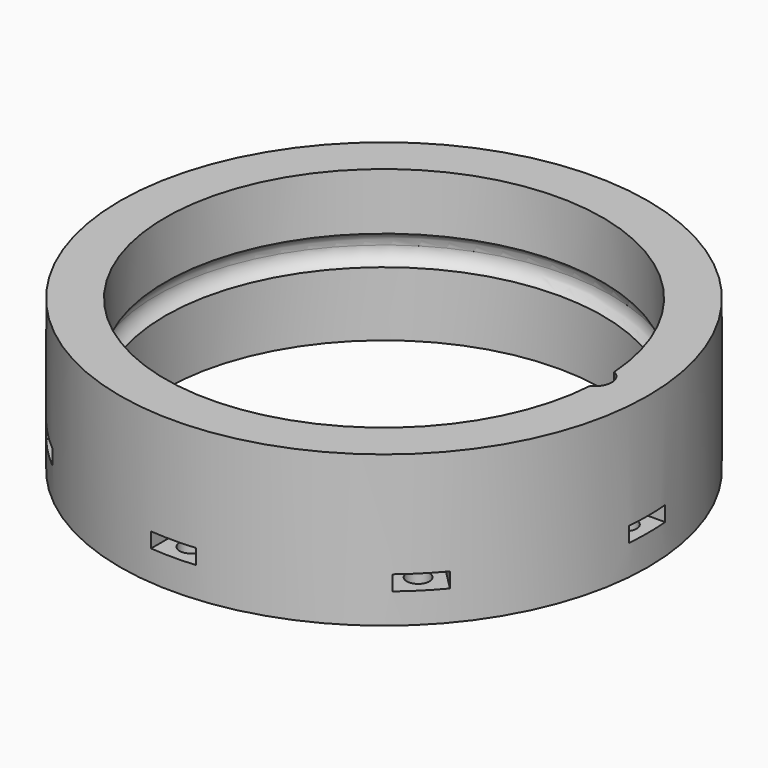
from build123d import *

# Parameters (mm, degrees)
BOX754_W                     = 6
BOX754_H                     = 6
BOX754_DEPTH                 = 2
BOX756_W                     = 6
BOX756_H                     = 6
BOX756_DEPTH                 = 2
BOX756_PLACEMENT_ANGLE       = 135
BOX753_W                     = 6
BOX753_H                     = 6
BOX753_DEPTH                 = 2
BOX750_W                     = 6
BOX750_H                     = 6
BOX750_DEPTH                 = 2
BOX750_PLACEMENT_ANGLE       = 225
BOX751_W                     = 6
BOX751_H                     = 6
BOX751_DEPTH                 = 2
BOX752_W                     = 6
BOX752_H                     = 6
BOX752_DEPTH                 = 2
BOX752_PLACEMENT_ANGLE       = 45
BOX757_W                     = 6
BOX757_H                     = 6
BOX757_DEPTH                 = 2
BOX749_W                     = 6
BOX749_H                     = 6
BOX749_DEPTH                 = 2
BOX749_PLACEMENT_ANGLE       = 45
CYLINDER1963_R               = 1.5
CYLINDER1963_DEPTH           = 10
CYLINDER1962_R               = 1.5
CYLINDER1962_DEPTH           = 10
CYLINDER1962_PLACEMENT_ANGLE = 135
CYLINDER1954_R               = 1.5
CYLINDER1954_DEPTH           = 10
CYLINDER1952_R               = 1.5
CYLINDER1952_DEPTH           = 10
CYLINDER1952_PLACEMENT_ANGLE = 225
CYLINDER1955_R               = 1.5
CYLINDER1955_DEPTH           = 10
CYLINDER1950_R               = 1.5
CYLINDER1950_DEPTH           = 10
CYLINDER1950_PLACEMENT_ANGLE = 45
CYLINDER1960_R               = 1.5
CYLINDER1960_DEPTH           = 10
CYLINDER1961_R               = 1.5
CYLINDER1961_DEPTH           = 10
CYLINDER1961_PLACEMENT_ANGLE = 45
CYLINDER1956_R               = 2.2
CYLINDER1956_DEPTH           = 10
TORUS003_R                   = 2.2
TUBE101_R                    = 35
TUBE101_R_2                  = 29
TUBE101_DEPTH                = 20


with BuildPart() as krychle754:
    # Box754 → Box754 (new body)
    with BuildSketch(Plane(origin=(-29, -3, 14), x_dir=(0, 1, 0), z_dir=(0, 0, 1))):
        with Locations((3, 3)):
            Rectangle(BOX754_W, BOX754_H)
    extrude(amount=BOX754_DEPTH)


with BuildPart() as krychle756:
    # Box756 → Box756 (new body)
    with BuildSketch(Plane.XY):
        with Locations((3, 3)):
            Rectangle(BOX756_W, BOX756_H)
    extrude(amount=BOX756_DEPTH)


with BuildPart() as krychle756_1:
    # Box756 placement: moved
    add(krychle756.part.moved(Location((-18.384776, -22.627417, 14))).rotate(Axis((-18.384776, -22.627417, 14), (0, 0, 1)), BOX756_PLACEMENT_ANGLE))


with BuildPart() as krychle753:
    # Box753 → Box753 (new body)
    with BuildSketch(Plane(origin=(3, -29, 14), x_dir=(-1, 0, 0), z_dir=(0, 0, 1))):
        with Locations((3, 3)):
            Rectangle(BOX753_W, BOX753_H)
    extrude(amount=BOX753_DEPTH)


with BuildPart() as krychle750:
    # Box750 → Box750 (new body)
    with BuildSketch(Plane.XY):
        with Locations((3, 3)):
            Rectangle(BOX750_W, BOX750_H)
    extrude(amount=BOX750_DEPTH)


with BuildPart() as krychle750_1:
    # Box750 placement: moved
    add(krychle750.part.moved(Location((22.627417, -18.384776, 14))).rotate(Axis((22.627417, -18.384776, 14), (0, 0, 1)), BOX750_PLACEMENT_ANGLE))


with BuildPart() as krychle751:
    # Box751 → Box751 (new body)
    with BuildSketch(Plane(origin=(29, 3, 14), x_dir=(0, -1, 0), z_dir=(0, 0, 1))):
        with Locations((3, 3)):
            Rectangle(BOX751_W, BOX751_H)
    extrude(amount=BOX751_DEPTH)


with BuildPart() as krychle752:
    # Box752 → Box752 (new body)
    with BuildSketch(Plane.XY):
        with Locations((3, 3)):
            Rectangle(BOX752_W, BOX752_H)
    extrude(amount=BOX752_DEPTH)


with BuildPart() as krychle752_1:
    # Box752 placement: moved
    add(krychle752.part.moved(Location((18.384776, 22.627417, 14))).rotate(Axis((18.384776, 22.627417, 14), (0, 0, -1)), BOX752_PLACEMENT_ANGLE))


with BuildPart() as krychle757:
    # Box757 → Box757 (new body)
    with BuildSketch(Plane(origin=(-3, 29, 14), x_dir=(1, 0, 0), z_dir=(0, 0, 1))):
        with Locations((3, 3)):
            Rectangle(BOX757_W, BOX757_H)
    extrude(amount=BOX757_DEPTH)


with BuildPart() as compound927:
    # Box749 → Box749 (new body)
    with BuildSketch(Plane.XY):
        with Locations((3, 3)):
            Rectangle(BOX749_W, BOX749_H)
    extrude(amount=BOX749_DEPTH)


with BuildPart() as compound927_1:
    # Box749 placement: moved
    add(compound927.part.moved(Location((-22.627417, 18.384776, 14))).rotate(Axis((-22.627417, 18.384776, 14), (0, 0, 1)), BOX749_PLACEMENT_ANGLE))

    # Compound927: union Krychle754, Krychle756, Krychle753, Krychle750, Krychle751, Krychle752, Krychle757
    add(krychle754.part)
    add(krychle756_1.part)
    add(krychle753.part)
    add(krychle750_1.part)
    add(krychle751.part)
    add(krychle752_1.part)
    add(krychle757.part)


with BuildPart() as obj1:
    # Cylinder1963 → Cylinder1963 (new body)
    with BuildSketch(Plane(origin=(-32, 0, 10), x_dir=(0, 1, 0), z_dir=(0, 0, 1))):
        Circle(CYLINDER1963_R)
    extrude(amount=CYLINDER1963_DEPTH)


with BuildPart() as obj2:
    # Cylinder1962 → Cylinder1962 (new body)
    with BuildSketch(Plane.XY):
        Circle(CYLINDER1962_R)
    extrude(amount=CYLINDER1962_DEPTH)


with BuildPart() as obj2_1:
    # Cylinder1962 placement: moved
    add(obj2.part.moved(Location((-22.627417, -22.627417, 10))).rotate(Axis((-22.627417, -22.627417, 10), (0, 0, 1)), CYLINDER1962_PLACEMENT_ANGLE))


with BuildPart() as obj3:
    # Cylinder1954 → Cylinder1954 (new body)
    with BuildSketch(Plane(origin=(0, -32, 10), x_dir=(-1, 0, 0), z_dir=(0, 0, 1))):
        Circle(CYLINDER1954_R)
    extrude(amount=CYLINDER1954_DEPTH)


with BuildPart() as obj4:
    # Cylinder1952 → Cylinder1952 (new body)
    with BuildSketch(Plane.XY):
        Circle(CYLINDER1952_R)
    extrude(amount=CYLINDER1952_DEPTH)


with BuildPart() as obj4_1:
    # Cylinder1952 placement: moved
    add(obj4.part.moved(Location((22.627417, -22.627417, 10))).rotate(Axis((22.627417, -22.627417, 10), (0, 0, 1)), CYLINDER1952_PLACEMENT_ANGLE))


with BuildPart() as obj5:
    # Cylinder1955 → Cylinder1955 (new body)
    with BuildSketch(Plane(origin=(32, 0, 10), x_dir=(0, -1, 0), z_dir=(0, 0, 1))):
        Circle(CYLINDER1955_R)
    extrude(amount=CYLINDER1955_DEPTH)


with BuildPart() as obj6:
    # Cylinder1950 → Cylinder1950 (new body)
    with BuildSketch(Plane.XY):
        Circle(CYLINDER1950_R)
    extrude(amount=CYLINDER1950_DEPTH)


with BuildPart() as obj6_1:
    # Cylinder1950 placement: moved
    add(obj6.part.moved(Location((22.627417, 22.627417, 10))).rotate(Axis((22.627417, 22.627417, 10), (0, 0, -1)), CYLINDER1950_PLACEMENT_ANGLE))


with BuildPart() as obj7:
    # Cylinder1960 → Cylinder1960 (new body)
    with BuildSketch(Plane(origin=(0, 32, 10), x_dir=(1, 0, 0), z_dir=(0, 0, 1))):
        Circle(CYLINDER1960_R)
    extrude(amount=CYLINDER1960_DEPTH)


with BuildPart() as compound929:
    # Cylinder1961 → Cylinder1961 (new body)
    with BuildSketch(Plane.XY):
        Circle(CYLINDER1961_R)
    extrude(amount=CYLINDER1961_DEPTH)


with BuildPart() as compound929_1:
    # Cylinder1961 placement: moved
    add(compound929.part.moved(Location((-22.627417, 22.627417, 10))).rotate(Axis((-22.627417, 22.627417, 10), (0, 0, 1)), CYLINDER1961_PLACEMENT_ANGLE))

    # Compound929: union obj1, obj2, obj3, obj4, obj5, obj6, obj7
    add(obj1.part)
    add(obj2_1.part)
    add(obj3.part)
    add(obj4_1.part)
    add(obj5.part)
    add(obj6_1.part)
    add(obj7.part)


with BuildPart() as obj8:
    # Cylinder1956 → Cylinder1956 (new body)
    with BuildSketch(Plane(origin=(28, 0, 20.5), x_dir=(1, 0, 0), z_dir=(0, 0, 1))):
        Circle(CYLINDER1956_R)
    extrude(amount=CYLINDER1956_DEPTH)


with BuildPart() as obj9:
    # Torus003 → Torus003 (revolve)
    with BuildSketch(Plane(origin=(0, 0, 20.5), x_dir=(1, 0, 0), z_dir=(0, -1, 0))):
        with Locations((28, 0)):
            Circle(TORUS003_R)
    revolve(axis=Axis((0, 0, 20.5), (0, 0, 1)))


with BuildPart() as obj10:
    # Tube101 → Tube101 (new body)
    with BuildSketch(Plane.XY.offset(10)):
        Circle(TUBE101_R)
        Circle(TUBE101_R_2, mode=Mode.SUBTRACT)
    extrude(amount=TUBE101_DEPTH)

    # Cut580: cut obj9
    add(obj9.part, mode=Mode.SUBTRACT)

    # Cut582: cut obj8
    add(obj8.part, mode=Mode.SUBTRACT)

    # Cut579: cut Compound929
    add(compound929_1.part, mode=Mode.SUBTRACT)

    # Cut575: cut Compound927
    add(compound927_1.part, mode=Mode.SUBTRACT)


solid = obj10.part
